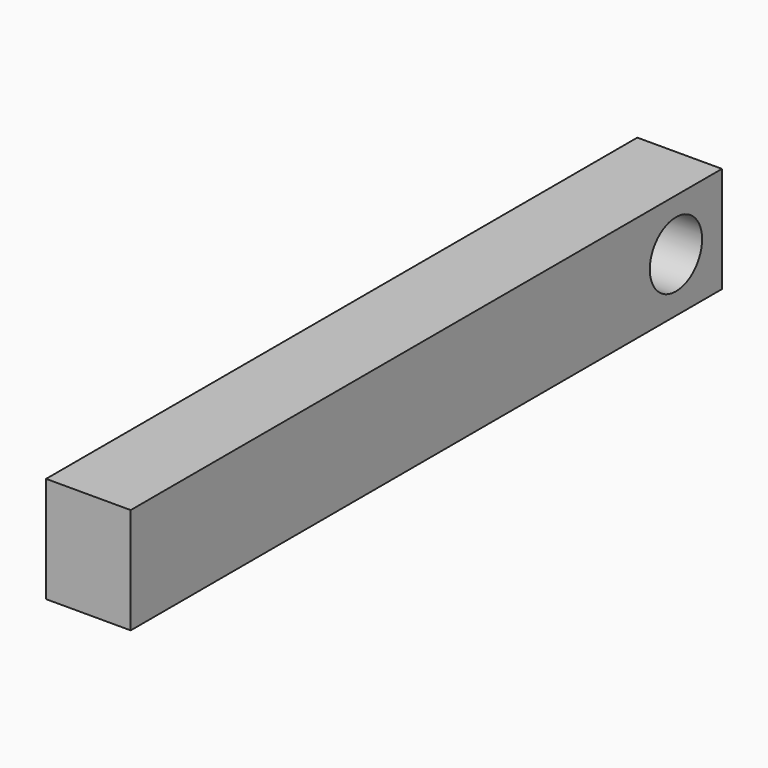
from build123d import *

# Parameters (mm, degrees)
F0_W     = 110.919081
F0_H     = 15.897489
F1_DEPTH = 12.7
F2_R     = 4.904731
F3_DEPTH = 12.701


with BuildPart() as f1:
    # F0 (on Right) → F1 (new body)
    with BuildSketch(Plane.YZ):
        with Locations((-5.241602, -0.167289)):
            Rectangle(F0_W, F0_H)
    extrude(amount=F1_DEPTH)

    # F2 (on face) → F3 (cut, through all)
    with BuildSketch(Plane.YZ.offset(12.7)):
        with Locations((41.594658, 0)):
            Circle(F2_R)
    extrude(amount=-F3_DEPTH, mode=Mode.SUBTRACT)


solid = f1.part
